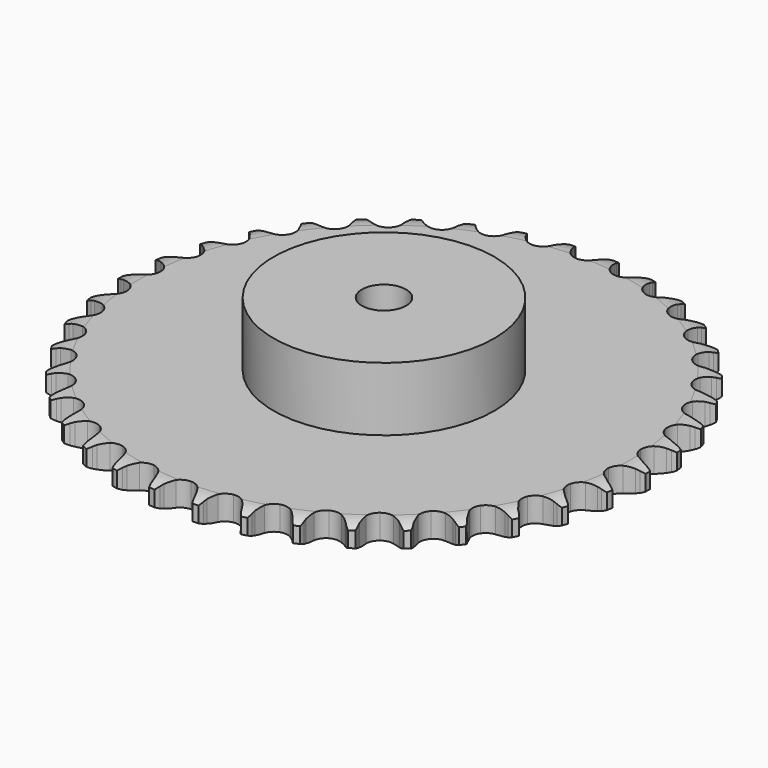
from build123d import *

# Parameters (mm, degrees)
PAD_DEPTH         = 11.1
SKETCH001_R       = 50
PAD001_DEPTH      = 40
SKETCH002_R       = 10
POCKET_DEPTH      = 0.001
POCKET_DEPTH_BACK = 40.001


with BuildPart() as part:
    # Sprocket → Pad (new body)
    with BuildSketch(Plane.XY):
        with BuildLine():
            ThreePointArc((-10.025052, 120.984389), (-8.623373, 119.280905), (-7.638429, 117.306964))
            Line((-7.638429, 117.306964), (-7.049797, 115.69432))
            ThreePointArc((-7.049797, 115.69432), (-6.119505, 113.622801), (-4.901153, 111.706488))
            ThreePointArc((-4.901153, 111.706488), (-2.743319, 109.891625), (0, 109.240337))
            ThreePointArc((0, 109.240337), (2.743319, 109.891625), (4.901153, 111.706488))
            ThreePointArc((4.901153, 111.706488), (6.119505, 113.622801), (7.049797, 115.69432))
            Line((7.049797, 115.69432), (7.638429, 117.306964))
            ThreePointArc((7.638429, 117.306964), (8.623373, 119.280905), (10.025052, 120.984389))
            ThreePointArc((10.025052, 120.984389), (11.127231, 119.07343), (11.773841, 116.964294))
            Line((11.773841, 116.964294), (12.089013, 115.276759))
            ThreePointArc((12.089013, 115.276759), (12.665656, 113.080371), (13.551976, 110.989661))
            ThreePointArc((13.551976, 110.989661), (15.381663, 108.844382), (17.980369, 107.750441))
            ThreePointArc((17.980369, 107.750441), (20.793471, 107.941311), (23.220591, 109.376254))
            Line((23.220591, 109.376254), (25.996306, 112.956042))
            ThreePointArc((25.996306, 112.956042), (26.398969, 113.714453), (26.842342, 114.449806))
            ThreePointArc((26.842342, 114.449806), (28.138753, 116.234709), (29.801699, 117.68425))
            ThreePointArc((29.801699, 117.68425), (30.574312, 115.617942), (30.864951, 113.431143))
            Line((30.864951, 113.431143), (30.898065, 111.714748))
            ThreePointArc((30.898065, 111.714748), (31.10533, 109.453404), (31.635443, 107.245324))
            ThreePointArc((31.635443, 107.245324), (33.087074, 104.828148), (35.47028, 103.321394))
            ThreePointArc((35.47028, 103.321394), (38.276431, 103.046639), (40.906632, 104.062521))
            Line((40.906632, 104.062521), (44.233704, 107.136618))
            ThreePointArc((44.233704, 107.136618), (44.755705, 107.818408), (45.314067, 108.470755))
            ThreePointArc((45.314067, 108.470755), (46.886581, 110.017932), (48.765434, 111.173992))
            ThreePointArc((48.765434, 111.173992), (49.187406, 109.008697), (49.114146, 106.803886))
            Line((49.114146, 106.803886), (48.864299, 105.10545))
            ThreePointArc((48.864299, 105.10545), (48.696532, 102.840833), (48.855977, 100.575615))
            ThreePointArc((48.855977, 100.575615), (49.889955, 97.952475), (51.992654, 96.074009))
            ThreePointArc((51.992654, 96.074009), (54.715309, 95.341124), (57.476847, 95.910234))
            Line((57.476847, 95.910234), (61.264521, 98.394786))
            ThreePointArc((61.264521, 98.394786), (61.891622, 98.981359), (62.549741, 99.532905))
            ThreePointArc((62.549741, 99.532905), (64.355466, 100.800154), (66.398975, 101.631197))
            ThreePointArc((66.398975, 101.631197), (66.458796, 99.42598), (66.023635, 97.263297))
            Line((66.023635, 97.263297), (65.497642, 95.629149))
            ThreePointArc((65.497642, 95.629149), (64.95942, 93.423033), (64.743847, 91.162465))
            ThreePointArc((64.743847, 91.162465), (65.331969, 88.404914), (67.096804, 86.205975))
            ThreePointArc((67.096804, 86.205975), (69.661697, 85.034951), (72.479243, 85.141765))
            Line((72.479243, 85.141765), (76.624202, 86.969))
            ThreePointArc((76.624202, 86.969), (77.339297, 87.444356), (78.079222, 87.880057))
            ThreePointArc((78.079222, 87.880057), (80.068901, 88.832809), (82.221324, 89.316168))
            ThreePointArc((82.221324, 89.316168), (81.917363, 87.131181), (81.132171, 85.06962))
            Line((81.132171, 85.06962), (80.34438, 83.544335))
            ThreePointArc((80.34438, 83.544335), (79.450383, 81.456895), (78.865674, 79.262641))
            ThreePointArc((78.865674, 79.262641), (78.991897, 76.445898), (80.370728, 73.986467))
            ThreePointArc((80.370728, 73.986467), (82.707895, 72.409247), (85.504595, 72.050851))
            Line((85.504595, 72.050851), (89.893775, 73.170927))
            ThreePointArc((89.893775, 73.170927), (90.677358, 73.522099), (91.478905, 73.83007))
            ThreePointArc((91.478905, 73.83007), (93.598266, 74.442338), (95.800891, 74.564826))
            ThreePointArc((95.800891, 74.564826), (95.141438, 72.45967), (94.027633, 70.555464))
            Line((94.027633, 70.555464), (92.999533, 69.180649))
            ThreePointArc((92.999533, 69.180649), (91.774148, 67.268826), (90.836251, 65.200739))
            ThreePointArc((90.836251, 65.200739), (90.497131, 62.401637), (91.452348, 59.748801))
            ThreePointArc((91.452348, 59.748801), (93.498038, 57.808407), (96.197604, 56.994577))
            Line((96.197604, 56.994577), (100.71128, 57.376942))
            ThreePointArc((100.71128, 57.376942), (101.541977, 57.594351), (102.383282, 57.766191))
            ThreePointArc((102.383282, 57.766191), (104.574513, 58.021273), (106.767258, 57.779551))
            ThreePointArc((106.767258, 57.779551), (105.770302, 55.811649), (104.358266, 54.11674))
            Line((104.358266, 54.11674), (103.117902, 52.929895))
            ThreePointArc((103.117902, 52.929895), (101.594553, 51.245839), (100.329052, 49.36033))
            ThreePointArc((100.329052, 49.36033), (99.53384, 46.655221), (100.039387, 43.881344))
            ThreePointArc((100.039387, 43.881344), (101.737798, 41.630704), (104.266593, 40.383641))
            Line((104.266593, 40.383641), (108.781644, 40.017863))
            ThreePointArc((108.781644, 40.017863), (109.636795, 40.095579), (110.49491, 40.126601))
            ThreePointArc((110.49491, 40.126601), (112.698241, 40.017539), (114.821294, 39.4182))
            ThreePointArc((114.821294, 39.4182), (113.514029, 37.641231), (111.842278, 36.201852))
            Line((111.842278, 36.201852), (110.423482, 35.235351))
            ThreePointArc((110.423482, 35.235351), (108.643724, 33.824998), (107.085138, 32.1735))
            ThreePointArc((107.085138, 32.1735), (105.855525, 29.636173), (105.897612, 26.816917))
            ThreePointArc((105.897612, 26.816917), (107.202415, 24.317425), (109.491461, 22.671143))
            Line((109.491461, 22.671143), (113.884728, 21.567202))
            ThreePointArc((113.884728, 21.567202), (114.741008, 21.503104), (115.592525, 21.392462))
            ThreePointArc((115.592525, 21.392462), (117.747854, 20.922231), (119.743303, 19.981623))
            ThreePointArc((119.743303, 19.981623), (118.161388, 18.444059), (116.275525, 17.299472))
            Line((116.275525, 17.299472), (114.716998, 16.579679))
            ThreePointArc((114.716998, 16.579679), (112.729377, 15.4815), (110.92022, 14.109061))
            ThreePointArc((110.92022, 14.109061), (109.289748, 11.808728), (108.867226, 9.020996))
            ThreePointArc((108.867226, 9.020996), (109.742831, 6.340829), (111.729688, 4.340236))
            Line((111.729688, 4.340236), (115.881333, 2.528243))
            ThreePointArc((115.881333, 2.528243), (116.715384, 2.32408), (117.537077, 2.074792))
            ThreePointArc((117.537077, 2.074792), (119.585613, 1.25622), (121.399028, 0))
            ThreePointArc((121.399028, 0), (119.585613, -1.25622), (117.537077, -2.074792))
            Line((117.537077, -2.074792), (115.881333, -2.528243))
            ThreePointArc((115.881333, -2.528243), (113.740066, -3.284293), (111.729688, -4.340236))
            ThreePointArc((111.729688, -4.340236), (109.742831, -6.340829), (108.867226, -9.020996))
            ThreePointArc((108.867226, -9.020996), (109.289748, -11.808728), (110.92022, -14.109061))
            Line((110.92022, -14.109061), (114.716998, -16.579679))
            ThreePointArc((114.716998, -16.579679), (115.50607, -16.918338), (116.275525, -17.299472))
            ThreePointArc((116.275525, -17.299472), (118.161388, -18.444059), (119.743303, -19.981623))
            ThreePointArc((119.743303, -19.981623), (117.747854, -20.922231), (115.592525, -21.392462))
            Line((115.592525, -21.392462), (113.884728, -21.567202))
            ThreePointArc((113.884728, -21.567202), (111.648223, -21.960499), (109.491461, -22.671143))
            ThreePointArc((109.491461, -22.671143), (107.202415, -24.317425), (105.897612, -26.816917))
            ThreePointArc((105.897612, -26.816917), (105.855525, -29.636173), (107.085138, -32.1735))
            Line((107.085138, -32.1735), (110.423482, -35.235351))
            ThreePointArc((110.423482, -35.235351), (111.146051, -35.699268), (111.842278, -36.201852))
            ThreePointArc((111.842278, -36.201852), (113.514029, -37.641231), (114.821294, -39.4182))
            ThreePointArc((114.821294, -39.4182), (112.698241, -40.017539), (110.49491, -40.126601))
            Line((110.49491, -40.126601), (108.781644, -40.017863))
            ThreePointArc((108.781644, -40.017863), (106.510907, -40.03768), (104.266593, -40.383641))
            ThreePointArc((104.266593, -40.383641), (101.737798, -41.630704), (100.039387, -43.881344))
            ThreePointArc((100.039387, -43.881344), (99.53384, -46.655221), (100.329052, -49.36033))
            Line((100.329052, -49.36033), (103.117902, -52.929895))
            ThreePointArc((103.117902, -52.929895), (103.754257, -53.506415), (104.358266, -54.11674))
            ThreePointArc((104.358266, -54.11674), (105.770302, -55.811649), (106.767258, -57.779551))
            ThreePointArc((106.767258, -57.779551), (104.574513, -58.021273), (102.383282, -57.766191))
            Line((102.383282, -57.766191), (100.71128, -57.376942))
            ThreePointArc((100.71128, -57.376942), (98.468252, -57.022737), (96.197604, -56.994577))
            ThreePointArc((96.197604, -56.994577), (93.498038, -57.808407), (91.452348, -59.748801))
            ThreePointArc((91.452348, -59.748801), (90.497131, -62.401637), (90.836251, -65.200739))
            Line((90.836251, -65.200739), (92.999533, -69.180649))
            ThreePointArc((92.999533, -69.180649), (93.532318, -69.854047), (94.027633, -70.555464))
            ThreePointArc((94.027633, -70.555464), (95.141438, -72.45967), (95.800891, -74.564826))
            ThreePointArc((95.800891, -74.564826), (93.598266, -74.442338), (91.478905, -73.83007))
            Line((91.478905, -73.83007), (89.893775, -73.170927))
            ThreePointArc((89.893775, -73.170927), (87.739639, -72.452363), (85.504595, -72.050851))
            ThreePointArc((85.504595, -72.050851), (82.707895, -72.409247), (80.370728, -73.986467))
            ThreePointArc((80.370728, -73.986467), (78.991897, -76.445898), (78.865674, -79.262641))
            Line((78.865674, -79.262641), (80.34438, -83.544335))
            ThreePointArc((80.34438, -83.544335), (80.75906, -84.296242), (81.132171, -85.06962))
            ThreePointArc((81.132171, -85.06962), (81.917363, -87.131181), (82.221324, -89.316168))
            ThreePointArc((82.221324, -89.316168), (80.068901, -88.832809), (78.079222, -87.880057))
            Line((78.079222, -87.880057), (76.624202, -86.969))
            ThreePointArc((76.624202, -86.969), (74.617718, -85.905677), (72.479243, -85.141765))
            ThreePointArc((72.479243, -85.141765), (69.661697, -85.034951), (67.096804, -86.205975))
            ThreePointArc((67.096804, -86.205975), (65.331969, -88.404914), (64.743847, -91.162465))
            Line((64.743847, -91.162465), (65.497642, -95.629149))
            ThreePointArc((65.497642, -95.629149), (65.782907, -96.439056), (66.023635, -97.263297))
            ThreePointArc((66.023635, -97.263297), (66.458796, -99.42598), (66.398975, -101.631197))
            ThreePointArc((66.398975, -101.631197), (64.355466, -100.800154), (62.549741, -99.532905))
            Line((62.549741, -99.532905), (61.264521, -98.394786))
            ThreePointArc((61.264521, -98.394786), (59.46042, -97.015708), (57.476847, -95.910234))
            ThreePointArc((57.476847, -95.910234), (54.715309, -95.341124), (51.992654, -96.074009))
            ThreePointArc((51.992654, -96.074009), (49.889955, -97.952475), (48.855977, -100.575615))
            Line((48.855977, -100.575615), (48.864299, -105.10545))
            ThreePointArc((48.864299, -105.10545), (49.012367, -105.951263), (49.114146, -106.803886))
            ThreePointArc((49.114146, -106.803886), (49.187406, -109.008697), (48.765434, -111.173992))
            ThreePointArc((48.765434, -111.173992), (46.886581, -110.017932), (45.314067, -108.470755))
            Line((45.314067, -108.470755), (44.233704, -107.136618))
            ThreePointArc((44.233704, -107.136618), (42.681196, -105.479404), (40.906632, -104.062521))
            ThreePointArc((40.906632, -104.062521), (38.276431, -103.046639), (35.47028, -103.321394))
            ThreePointArc((35.47028, -103.321394), (33.087074, -104.828148), (31.635443, -107.245324))
            Line((31.635443, -107.245324), (30.898065, -111.714748))
            ThreePointArc((30.898065, -111.714748), (30.904897, -112.573397), (30.864951, -113.431143))
            ThreePointArc((30.864951, -113.431143), (30.574312, -115.617942), (29.801699, -117.68425))
            ThreePointArc((29.801699, -117.68425), (28.138753, -116.234709), (26.842342, -114.449806))
            Line((26.842342, -114.449806), (25.996306, -112.956042))
            ThreePointArc((25.996306, -112.956042), (24.737741, -111.065897), (23.220591, -109.376254))
            ThreePointArc((23.220591, -109.376254), (20.793471, -107.941311), (17.980369, -107.750441))
            ThreePointArc((17.980369, -107.750441), (15.381663, -108.844382), (13.551976, -110.989661))
            Line((13.551976, -110.989661), (12.089013, -115.276759))
            ThreePointArc((12.089013, -115.276759), (11.954423, -116.124821), (11.773841, -116.964294))
            ThreePointArc((11.773841, -116.964294), (11.127231, -119.07343), (10.025052, -120.984389))
            ThreePointArc((10.025052, -120.984389), (8.623373, -119.280905), (7.638429, -117.306964))
            Line((7.638429, -117.306964), (7.049797, -115.69432))
            ThreePointArc((7.049797, -115.69432), (6.119505, -113.622801), (4.901153, -111.706488))
            ThreePointArc((4.901153, -111.706488), (2.743319, -109.891625), (0, -109.240337))
            ThreePointArc((0, -109.240337), (-2.743319, -109.891625), (-4.901153, -111.706488))
            Line((-4.901153, -111.706488), (-7.049797, -115.69432))
            ThreePointArc((-7.049797, -115.69432), (-7.322138, -116.508663), (-7.638429, -117.306964))
            ThreePointArc((-7.638429, -117.306964), (-8.623373, -119.280905), (-10.025052, -120.984389))
            ThreePointArc((-10.025052, -120.984389), (-11.127231, -119.07343), (-11.773841, -116.964294))
            Line((-11.773841, -116.964294), (-12.089013, -115.276759))
            ThreePointArc((-12.089013, -115.276759), (-12.665656, -113.080371), (-13.551976, -110.989661))
            ThreePointArc((-13.551976, -110.989661), (-15.381663, -108.844382), (-17.980369, -107.750441))
            ThreePointArc((-17.980369, -107.750441), (-20.793471, -107.941311), (-23.220591, -109.376254))
            Line((-23.220591, -109.376254), (-25.996306, -112.956042))
            ThreePointArc((-25.996306, -112.956042), (-26.398969, -113.714453), (-26.842342, -114.449806))
            ThreePointArc((-26.842342, -114.449806), (-28.138753, -116.234709), (-29.801699, -117.68425))
            ThreePointArc((-29.801699, -117.68425), (-30.574312, -115.617942), (-30.864951, -113.431143))
            Line((-30.864951, -113.431143), (-30.898065, -111.714748))
            ThreePointArc((-30.898065, -111.714748), (-31.10533, -109.453404), (-31.635443, -107.245324))
            ThreePointArc((-31.635443, -107.245324), (-33.087074, -104.828148), (-35.47028, -103.321394))
            ThreePointArc((-35.47028, -103.321394), (-38.276431, -103.046639), (-40.906632, -104.062521))
            Line((-40.906632, -104.062521), (-44.233704, -107.136618))
            ThreePointArc((-44.233704, -107.136618), (-44.755705, -107.818408), (-45.314067, -108.470755))
            ThreePointArc((-45.314067, -108.470755), (-46.886581, -110.017932), (-48.765434, -111.173992))
            ThreePointArc((-48.765434, -111.173992), (-49.187406, -109.008697), (-49.114146, -106.803886))
            Line((-49.114146, -106.803886), (-48.864299, -105.10545))
            ThreePointArc((-48.864299, -105.10545), (-48.696532, -102.840833), (-48.855977, -100.575615))
            ThreePointArc((-48.855977, -100.575615), (-49.889955, -97.952475), (-51.992654, -96.074009))
            ThreePointArc((-51.992654, -96.074009), (-54.715309, -95.341124), (-57.476847, -95.910234))
            Line((-57.476847, -95.910234), (-61.264521, -98.394786))
            ThreePointArc((-61.264521, -98.394786), (-61.891622, -98.981359), (-62.549741, -99.532905))
            ThreePointArc((-62.549741, -99.532905), (-64.355466, -100.800154), (-66.398975, -101.631197))
            ThreePointArc((-66.398975, -101.631197), (-66.458796, -99.42598), (-66.023635, -97.263297))
            Line((-66.023635, -97.263297), (-65.497642, -95.629149))
            ThreePointArc((-65.497642, -95.629149), (-64.95942, -93.423033), (-64.743847, -91.162465))
            ThreePointArc((-64.743847, -91.162465), (-65.331969, -88.404914), (-67.096804, -86.205975))
            ThreePointArc((-67.096804, -86.205975), (-69.661697, -85.034951), (-72.479243, -85.141765))
            Line((-72.479243, -85.141765), (-76.624202, -86.969))
            ThreePointArc((-76.624202, -86.969), (-77.339297, -87.444356), (-78.079222, -87.880057))
            ThreePointArc((-78.079222, -87.880057), (-80.068901, -88.832809), (-82.221324, -89.316168))
            ThreePointArc((-82.221324, -89.316168), (-81.917363, -87.131181), (-81.132171, -85.06962))
            Line((-81.132171, -85.06962), (-80.34438, -83.544335))
            ThreePointArc((-80.34438, -83.544335), (-79.450383, -81.456895), (-78.865674, -79.262641))
            ThreePointArc((-78.865674, -79.262641), (-78.991897, -76.445898), (-80.370728, -73.986467))
            ThreePointArc((-80.370728, -73.986467), (-82.707895, -72.409247), (-85.504595, -72.050851))
            Line((-85.504595, -72.050851), (-89.893775, -73.170927))
            ThreePointArc((-89.893775, -73.170927), (-90.677358, -73.522099), (-91.478905, -73.83007))
            ThreePointArc((-91.478905, -73.83007), (-93.598266, -74.442338), (-95.800891, -74.564826))
            ThreePointArc((-95.800891, -74.564826), (-95.141438, -72.45967), (-94.027633, -70.555464))
            Line((-94.027633, -70.555464), (-92.999533, -69.180649))
            ThreePointArc((-92.999533, -69.180649), (-91.774148, -67.268826), (-90.836251, -65.200739))
            ThreePointArc((-90.836251, -65.200739), (-90.497131, -62.401637), (-91.452348, -59.748801))
            ThreePointArc((-91.452348, -59.748801), (-93.498038, -57.808407), (-96.197604, -56.994577))
            Line((-96.197604, -56.994577), (-100.71128, -57.376942))
            ThreePointArc((-100.71128, -57.376942), (-101.541977, -57.594351), (-102.383282, -57.766191))
            ThreePointArc((-102.383282, -57.766191), (-104.574513, -58.021273), (-106.767258, -57.779551))
            ThreePointArc((-106.767258, -57.779551), (-105.770302, -55.811649), (-104.358266, -54.11674))
            Line((-104.358266, -54.11674), (-103.117902, -52.929895))
            ThreePointArc((-103.117902, -52.929895), (-101.594553, -51.245839), (-100.329052, -49.36033))
            ThreePointArc((-100.329052, -49.36033), (-99.53384, -46.655221), (-100.039387, -43.881344))
            ThreePointArc((-100.039387, -43.881344), (-101.737798, -41.630704), (-104.266593, -40.383641))
            Line((-104.266593, -40.383641), (-108.781644, -40.017863))
            ThreePointArc((-108.781644, -40.017863), (-109.636795, -40.095579), (-110.49491, -40.126601))
            ThreePointArc((-110.49491, -40.126601), (-112.698241, -40.017539), (-114.821294, -39.4182))
            ThreePointArc((-114.821294, -39.4182), (-113.514029, -37.641231), (-111.842278, -36.201852))
            Line((-111.842278, -36.201852), (-110.423482, -35.235351))
            ThreePointArc((-110.423482, -35.235351), (-108.643724, -33.824998), (-107.085138, -32.1735))
            ThreePointArc((-107.085138, -32.1735), (-105.855525, -29.636173), (-105.897612, -26.816917))
            ThreePointArc((-105.897612, -26.816917), (-107.202415, -24.317425), (-109.491461, -22.671143))
            Line((-109.491461, -22.671143), (-113.884728, -21.567202))
            ThreePointArc((-113.884728, -21.567202), (-114.741008, -21.503104), (-115.592525, -21.392462))
            ThreePointArc((-115.592525, -21.392462), (-117.747854, -20.922231), (-119.743303, -19.981623))
            ThreePointArc((-119.743303, -19.981623), (-118.161388, -18.444059), (-116.275525, -17.299472))
            Line((-116.275525, -17.299472), (-114.716998, -16.579679))
            ThreePointArc((-114.716998, -16.579679), (-112.729377, -15.4815), (-110.92022, -14.109061))
            ThreePointArc((-110.92022, -14.109061), (-109.289748, -11.808728), (-108.867226, -9.020996))
            ThreePointArc((-108.867226, -9.020996), (-109.742831, -6.340829), (-111.729688, -4.340236))
            Line((-111.729688, -4.340236), (-115.881333, -2.528243))
            ThreePointArc((-115.881333, -2.528243), (-116.715384, -2.32408), (-117.537077, -2.074792))
            ThreePointArc((-117.537077, -2.074792), (-119.585613, -1.25622), (-121.399028, 0))
            ThreePointArc((-121.399028, 0), (-119.585613, 1.25622), (-117.537077, 2.074792))
            Line((-117.537077, 2.074792), (-115.881333, 2.528243))
            ThreePointArc((-115.881333, 2.528243), (-113.740066, 3.284293), (-111.729688, 4.340236))
            ThreePointArc((-111.729688, 4.340236), (-109.742831, 6.340829), (-108.867226, 9.020996))
            ThreePointArc((-108.867226, 9.020996), (-109.289748, 11.808728), (-110.92022, 14.109061))
            Line((-110.92022, 14.109061), (-114.716998, 16.579679))
            ThreePointArc((-114.716998, 16.579679), (-115.50607, 16.918338), (-116.275525, 17.299472))
            ThreePointArc((-116.275525, 17.299472), (-118.161388, 18.444059), (-119.743303, 19.981623))
            ThreePointArc((-119.743303, 19.981623), (-117.747854, 20.922231), (-115.592525, 21.392462))
            Line((-115.592525, 21.392462), (-113.884728, 21.567202))
            ThreePointArc((-113.884728, 21.567202), (-111.648223, 21.960499), (-109.491461, 22.671143))
            ThreePointArc((-109.491461, 22.671143), (-107.202415, 24.317425), (-105.897612, 26.816917))
            ThreePointArc((-105.897612, 26.816917), (-105.855525, 29.636173), (-107.085138, 32.1735))
            Line((-107.085138, 32.1735), (-110.423482, 35.235351))
            ThreePointArc((-110.423482, 35.235351), (-111.146051, 35.699268), (-111.842278, 36.201852))
            ThreePointArc((-111.842278, 36.201852), (-113.514029, 37.641231), (-114.821294, 39.4182))
            ThreePointArc((-114.821294, 39.4182), (-112.698241, 40.017539), (-110.49491, 40.126601))
            Line((-110.49491, 40.126601), (-108.781644, 40.017863))
            ThreePointArc((-108.781644, 40.017863), (-106.510907, 40.03768), (-104.266593, 40.383641))
            ThreePointArc((-104.266593, 40.383641), (-101.737798, 41.630704), (-100.039387, 43.881344))
            ThreePointArc((-100.039387, 43.881344), (-99.53384, 46.655221), (-100.329052, 49.36033))
            Line((-100.329052, 49.36033), (-103.117902, 52.929895))
            ThreePointArc((-103.117902, 52.929895), (-103.754257, 53.506415), (-104.358266, 54.11674))
            ThreePointArc((-104.358266, 54.11674), (-105.770302, 55.811649), (-106.767258, 57.779551))
            ThreePointArc((-106.767258, 57.779551), (-104.574513, 58.021273), (-102.383282, 57.766191))
            Line((-102.383282, 57.766191), (-100.71128, 57.376942))
            ThreePointArc((-100.71128, 57.376942), (-98.468252, 57.022737), (-96.197604, 56.994577))
            ThreePointArc((-96.197604, 56.994577), (-93.498038, 57.808407), (-91.452348, 59.748801))
            ThreePointArc((-91.452348, 59.748801), (-90.497131, 62.401637), (-90.836251, 65.200739))
            Line((-90.836251, 65.200739), (-92.999533, 69.180649))
            ThreePointArc((-92.999533, 69.180649), (-93.532318, 69.854047), (-94.027633, 70.555464))
            ThreePointArc((-94.027633, 70.555464), (-95.141438, 72.45967), (-95.800891, 74.564826))
            ThreePointArc((-95.800891, 74.564826), (-93.598266, 74.442338), (-91.478905, 73.83007))
            Line((-91.478905, 73.83007), (-89.893775, 73.170927))
            ThreePointArc((-89.893775, 73.170927), (-87.739639, 72.452363), (-85.504595, 72.050851))
            ThreePointArc((-85.504595, 72.050851), (-82.707895, 72.409247), (-80.370728, 73.986467))
            ThreePointArc((-80.370728, 73.986467), (-78.991897, 76.445898), (-78.865674, 79.262641))
            Line((-78.865674, 79.262641), (-80.34438, 83.544335))
            ThreePointArc((-80.34438, 83.544335), (-80.75906, 84.296242), (-81.132171, 85.06962))
            ThreePointArc((-81.132171, 85.06962), (-81.917363, 87.131181), (-82.221324, 89.316168))
            ThreePointArc((-82.221324, 89.316168), (-80.068901, 88.832809), (-78.079222, 87.880057))
            Line((-78.079222, 87.880057), (-76.624202, 86.969))
            ThreePointArc((-76.624202, 86.969), (-74.617718, 85.905677), (-72.479243, 85.141765))
            ThreePointArc((-72.479243, 85.141765), (-69.661697, 85.034951), (-67.096804, 86.205975))
            ThreePointArc((-67.096804, 86.205975), (-65.331969, 88.404914), (-64.743847, 91.162465))
            Line((-64.743847, 91.162465), (-65.497642, 95.629149))
            ThreePointArc((-65.497642, 95.629149), (-65.782907, 96.439056), (-66.023635, 97.263297))
            ThreePointArc((-66.023635, 97.263297), (-66.458796, 99.42598), (-66.398975, 101.631197))
            ThreePointArc((-66.398975, 101.631197), (-64.355466, 100.800154), (-62.549741, 99.532905))
            Line((-62.549741, 99.532905), (-61.264521, 98.394786))
            ThreePointArc((-61.264521, 98.394786), (-59.46042, 97.015708), (-57.476847, 95.910234))
            ThreePointArc((-57.476847, 95.910234), (-54.715309, 95.341124), (-51.992654, 96.074009))
            ThreePointArc((-51.992654, 96.074009), (-49.889955, 97.952475), (-48.855977, 100.575615))
            Line((-48.855977, 100.575615), (-48.864299, 105.10545))
            ThreePointArc((-48.864299, 105.10545), (-49.012367, 105.951263), (-49.114146, 106.803886))
            ThreePointArc((-49.114146, 106.803886), (-49.187406, 109.008697), (-48.765434, 111.173992))
            ThreePointArc((-48.765434, 111.173992), (-46.886581, 110.017932), (-45.314067, 108.470755))
            Line((-45.314067, 108.470755), (-44.233704, 107.136618))
            ThreePointArc((-44.233704, 107.136618), (-42.681196, 105.479404), (-40.906632, 104.062521))
            ThreePointArc((-40.906632, 104.062521), (-38.276431, 103.046639), (-35.47028, 103.321394))
            ThreePointArc((-35.47028, 103.321394), (-33.087074, 104.828148), (-31.635443, 107.245324))
            Line((-31.635443, 107.245324), (-30.898065, 111.714748))
            ThreePointArc((-30.898065, 111.714748), (-30.904897, 112.573397), (-30.864951, 113.431143))
            ThreePointArc((-30.864951, 113.431143), (-30.574312, 115.617942), (-29.801699, 117.68425))
            ThreePointArc((-29.801699, 117.68425), (-28.138753, 116.234709), (-26.842342, 114.449806))
            Line((-26.842342, 114.449806), (-25.996306, 112.956042))
            ThreePointArc((-25.996306, 112.956042), (-24.737741, 111.065897), (-23.220591, 109.376254))
            ThreePointArc((-23.220591, 109.376254), (-20.793471, 107.941311), (-17.980369, 107.750441))
            ThreePointArc((-17.980369, 107.750441), (-15.381663, 108.844382), (-13.551976, 110.989661))
            Line((-13.551976, 110.989661), (-12.089013, 115.276759))
            ThreePointArc((-12.089013, 115.276759), (-11.954423, 116.124821), (-11.773841, 116.964294))
            ThreePointArc((-11.773841, 116.964294), (-11.127231, 119.07343), (-10.025052, 120.984389))
        make_face()
    extrude(amount=PAD_DEPTH)

    # Sketch → Groove (revolve, cut)
    with BuildSketch(Plane.XZ):
        with BuildLine():
            Line((111.014719, 0), (119.5, 0))
            Line((127.985281, 0), (119.5, 0))
            Line((127.985281, 11.1), (127.985281, 0))
            Line((119.5, 11.1), (127.985281, 11.1))
            Line((111.014719, 11.1), (119.5, 11.1))
            ThreePointArc((119.5, 9.1), (115.373618, 10.593242), (111.014719, 11.1))
            Line((119.5, 2), (119.5, 9.1))
            ThreePointArc((111.014719, 0), (115.373618, 0.506758), (119.5, 2))
        make_face()
    revolve(axis=Axis((0, 0, 0), (0, 0, 1)), mode=Mode.SUBTRACT)

    # Sketch001 → Pad001 (join)
    with BuildSketch(Plane.XY):
        Circle(SKETCH001_R)
    extrude(amount=PAD001_DEPTH)

    # Sketch002 → Pocket (cut, two sides)
    with BuildSketch(Plane.XY) as pocket_sk:
        Circle(SKETCH002_R)
    extrude(amount=-POCKET_DEPTH, mode=Mode.SUBTRACT)
    extrude(pocket_sk.sketch, amount=POCKET_DEPTH_BACK, mode=Mode.SUBTRACT)


solid = part.part
